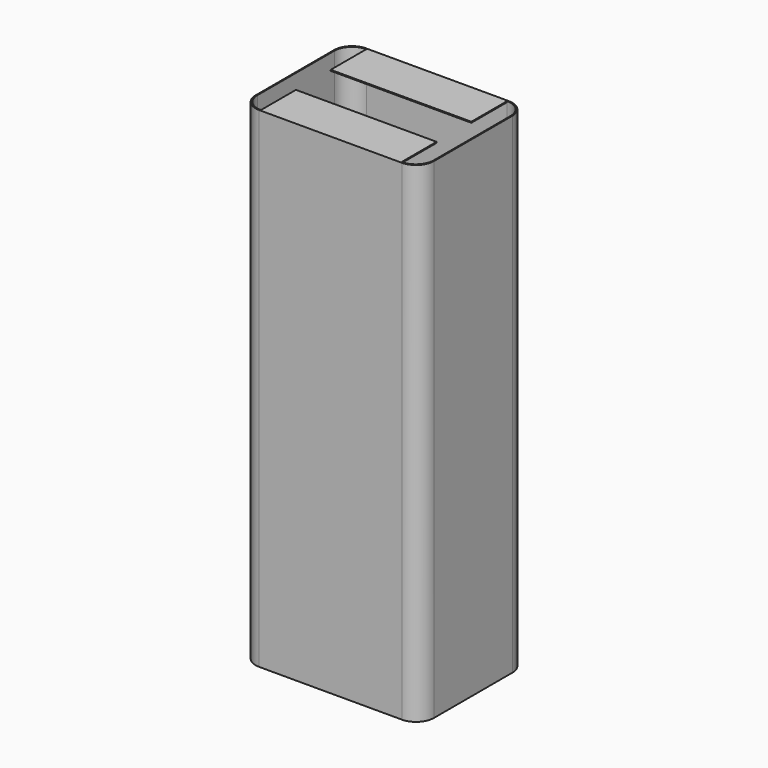
from build123d import *

# Parameters (mm, degrees)
F1_DEPTH = 30
F2_W     = 15.78
F2_H     = 0.11
F3_DEPTH = 5
F4_W     = 15.78
F4_H     = 0.11
F5_DEPTH = 4.9
F6_DEPTH = 25


with BuildPart() as f1:
    # F0 (on Top) → F1 (new body)
    with BuildSketch(Plane.XY):
        with BuildLine():
            Line((-8, -7.5), (8, -7.5))
            ThreePointArc((8, -7.5), (9.4142135624, -6.9142135624), (10, -5.5))
            Line((10, -5.5), (10, 5.5))
            ThreePointArc((10, 5.5), (9.4142135624, 6.9142135624), (8, 7.5))
            Line((8, 7.5), (-8, 7.5))
            ThreePointArc((-8, 7.5), (-9.4142135624, 6.9142135624), (-10, 5.5))
            Line((-10, 5.5), (-10, -5.5))
            ThreePointArc((-10, -5.5), (-9.4142135624, -6.9142135624), (-8, -7.5))
        make_face()
        with BuildLine():
            Line((-7.89, 7.39), (7.89, 7.39))
            ThreePointArc((7.89, 7.39), (9.3042135624, 6.8042135624), (9.89, 5.39))
            Line((9.89, 5.39), (9.89, -5.39))
            ThreePointArc((9.89, -5.39), (9.3042135624, -6.8042135624), (7.89, -7.39))
            Line((7.89, -7.39), (-7.89, -7.39))
            ThreePointArc((-7.89, -7.39), (-9.3042135624, -6.8042135624), (-9.89, -5.39))
            Line((-9.89, -5.39), (-9.89, 5.39))
            ThreePointArc((-9.89, 5.39), (-9.3042135624, 6.8042135624), (-7.89, 7.39))
        make_face(mode=Mode.SUBTRACT)
    extrude(amount=F1_DEPTH)

    # F2 (on face) → F3 (join)
    with BuildSketch(Plane.XZ.offset(-7.39)):
        with Locations((0, 29.945)):
            Rectangle(F2_W, F2_H)
    extrude(amount=F3_DEPTH)

    # F4 (on face) → F5 (join)
    with BuildSketch(Plane(origin=(0, -7.39, 0), x_dir=(-1, 0, 0), z_dir=(0, 1, 0))):
        with Locations((0, 29.945)):
            Rectangle(F4_W, F4_H)
    extrude(amount=F5_DEPTH)

    # F6 (add): a face of the model
    f6_faces = [f1.faces().sort_by_distance(p)[0] for p in [
        (0, -7.475, 0),
    ]]
    extrude(f6_faces, amount=F6_DEPTH)


solid = f1.part
